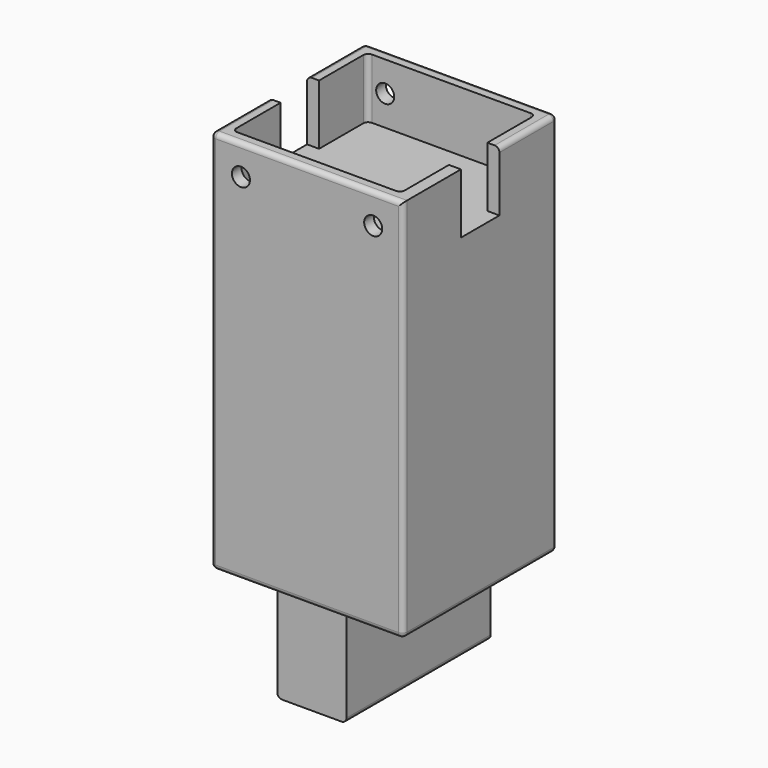
from build123d import *

# Parameters (mm, degrees)
F0_W     = 203.2
F0_H     = 203.2
F1_DEPTH = 406.4
F2_W     = 177.8
F2_H     = 177.8
F3_DEPTH = 63.5
F4_R     = 9.525
F5_DEPTH = 205.74
F6_W     = 50.8
F6_H     = 63.5
F7_DEPTH = 228.6
F8_W     = 73.0317101263
F8_H     = 190.5
F9_DEPTH = 101.6
F10_R    = 5.08


with BuildPart() as f1:
    # F0 (on Top) → F1 (new body)
    with BuildSketch(Plane.XY):
        Rectangle(F0_W, F0_H)
    extrude(amount=F1_DEPTH)

    # F2 (on face) → F3 (cut)
    with BuildSketch(Plane.XY.offset(406.4)):
        Rectangle(F2_W, F2_H)
    extrude(amount=-F3_DEPTH, mode=Mode.SUBTRACT)

    # F4 (on face) → F5 (cut)
    with BuildSketch(Plane.XZ.offset(101.6)):
        with Locations((-69.85, 374.65)):
            Circle(F4_R)
        with Locations((69.85, 374.65)):
            Circle(F4_R)
    extrude(amount=-F5_DEPTH, mode=Mode.SUBTRACT)

    # F6 (on face) → F7 (cut)
    with BuildSketch(Plane.YZ.offset(101.6)):
        with Locations((0, 374.65)):
            Rectangle(F6_W, F6_H)
    extrude(amount=-F7_DEPTH, mode=Mode.SUBTRACT)

    # F8 (on face) → F9 (join)
    with BuildSketch(Plane.XY):
        Rectangle(F8_W, F8_H)
    extrude(amount=-F9_DEPTH)

    # F10
    f10_edges = [f1.edges().sort_by_distance(p)[0] for p in [
        (-101.6, 101.6, 203.2),
        (-101.6, -101.6, 203.2),
        (101.6, 101.6, 203.2),
        (101.6, 63.5, 406.4),
        (0, 101.6, 406.4),
        (-101.6, 63.5, 406.4),
        (-101.6, -63.5, 406.4),
        (0, -101.6, 406.4),
        (101.6, -101.6, 203.2),
        (101.6, 0, 0),
        (0, -101.6, 0),
        (0, 101.6, 0),
        (-101.6, 0, 0),
        (-88.9, -88.9, 374.65),
        (-88.9, 88.9, 374.65),
        (88.9, -88.9, 374.65),
        (88.9, 88.9, 374.65),
        (36.515855, 0, -101.6),
        (-36.515855, 0, -101.6),
    ]]
    fillet(f10_edges, radius=F10_R)


solid = f1.part
